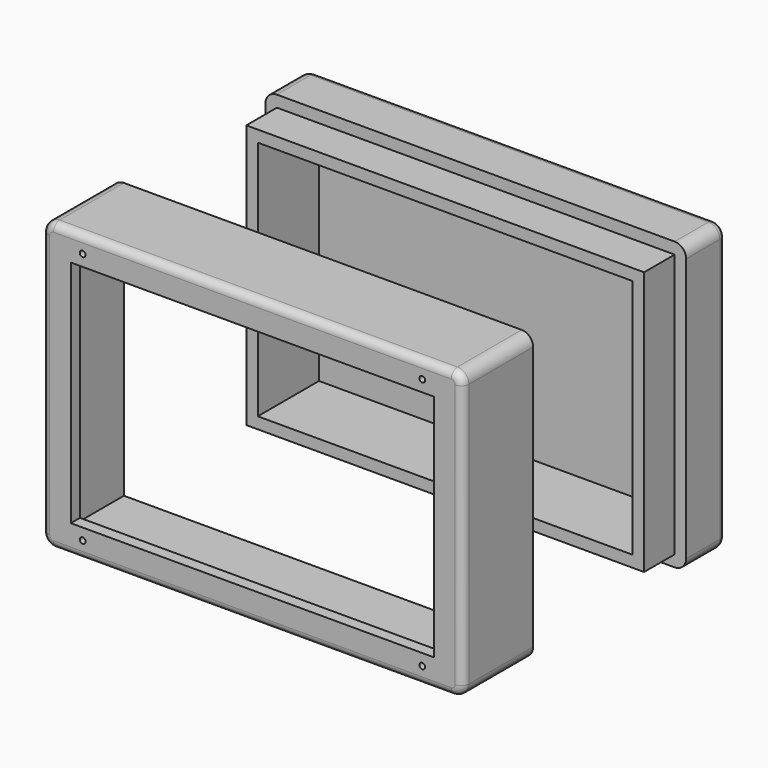
from build123d import *

# Parameters (mm, degrees)
F0_W      = 139.7
F0_H      = 95.25
F0_R      = 0.9525
F0_W_2    = 120.65
F0_H_2    = 76.2
F1_DEPTH  = 3.81
F2_W      = 139.7
F2_H      = 95.25
F2_W_2    = 132.08
F2_H_2    = 87.63
F3_DEPTH  = 25.4
F4_R      = 3.81
F5_R      = 2.54
F7_W      = 139.7
F7_H      = 95.25
F7_W_2    = 132.08
F7_H_2    = 87.63
F8_DEPTH  = 3.81
F9_DEPTH  = 12.7
F10_R     = 3.81
F11_R     = 2.54
F12_W     = 132.08
F12_H     = 87.63
F12_W_2   = 124.46
F12_H_2   = 80.01
F13_DEPTH = 25.4


with BuildPart() as f1:
    # F0 (on Front) → F1 (new body)
    with BuildSketch(Plane.XZ):
        Rectangle(F0_W, F0_H)
        with Locations((-56.388, -41.91)):
            Circle(F0_R, mode=Mode.SUBTRACT)
        with Locations((56.388, -41.91)):
            Circle(F0_R, mode=Mode.SUBTRACT)
        with Locations((-56.388, 41.91)):
            Circle(F0_R, mode=Mode.SUBTRACT)
        Rectangle(F0_W_2, F0_H_2, mode=Mode.SUBTRACT)
        with Locations((56.388, 41.91)):
            Circle(F0_R, mode=Mode.SUBTRACT)
    extrude(amount=F1_DEPTH)

    # F2 (on face) → F3 (join)
    with BuildSketch(Plane(origin=(0, 0, 0), x_dir=(-1, 0, 0), z_dir=(0, 1, 0))):
        Rectangle(F2_W, F2_H)
        Rectangle(F2_W_2, F2_H_2, mode=Mode.SUBTRACT)
    extrude(amount=F3_DEPTH)

    # F4
    f4_edges = [f1.edges().sort_by_distance(p)[0] for p in [
        (69.85, 10.795, 47.625),
        (-69.85, 10.795, 47.625),
        (69.85, 10.795, -47.625),
        (-69.85, 10.795, -47.625),
    ]]
    fillet(f4_edges, radius=F4_R)

    # F5
    f5_edges = [f1.edges().sort_by_distance(p)[0] for p in [
        (0, -3.81, 47.625),
        (69.85, -3.81, 0),
    ]]
    fillet(f5_edges, radius=F5_R)


with BuildPart() as f8:
    # F7 (on offset) → F8 (new body)
    with BuildSketch(Plane.XZ.offset(-101.6)):
        Rectangle(F7_W, F7_H)
        Rectangle(F7_W_2, F7_H_2, mode=Mode.SUBTRACT)
        Rectangle(F7_W_2, F7_H_2)
    extrude(amount=-F8_DEPTH)

    # F7 (on offset) → F9 (join)
    with BuildSketch(Plane.XZ.offset(-101.6)):
        Rectangle(F7_W, F7_H)
        Rectangle(F7_W_2, F7_H_2, mode=Mode.SUBTRACT)
    extrude(amount=F9_DEPTH)

    # F10
    f10_edges = [f8.edges().sort_by_distance(p)[0] for p in [
        (69.85, 97.155, 47.625),
        (-69.85, 97.155, 47.625),
        (69.85, 97.155, -47.625),
        (-69.85, 97.155, -47.625),
    ]]
    fillet(f10_edges, radius=F10_R)

    # F11
    f11_edges = [f8.edges().sort_by_distance(p)[0] for p in [
        (0, 105.41, 47.625),
    ]]
    fillet(f11_edges, radius=F11_R)

    # F12 (on face) → F13 (join)
    with BuildSketch(Plane.XZ.offset(-101.6)):
        Rectangle(F12_W, F12_H)
        Rectangle(F12_W_2, F12_H_2, mode=Mode.SUBTRACT)
    extrude(amount=F13_DEPTH)


solid = Compound([f1.part, f8.part])
